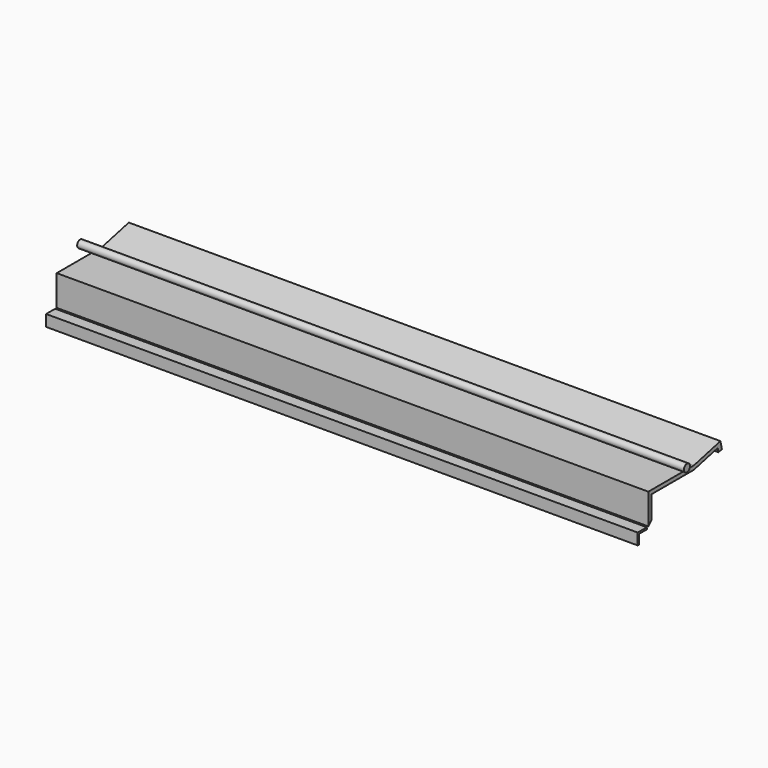
from build123d import *

# Parameters (mm, degrees)
F1_DEPTH      = 1981.2
F3_DEPTH      = 1981.2
F5_DEPTH      = 25.4
F5_DEPTH_BACK = 2006.6


with BuildPart() as f1:
    # F0 (on Right) → F1 (new body)
    with BuildSketch(Plane.YZ):
        Polygon((0, 101.6), (0, 0), (12.7, 12.7), (12.7, 101.6), align=None)
        Polygon((-6.35, -6.35), (-6.35, 0), (-44.45, 0), (-44.45, -38.1), (-38.1, -38.1), (-38.1, -6.35), align=None)
    extrude(amount=-F1_DEPTH)

    # F2 (on Right) → F3 (join)
    with BuildSketch(Plane.YZ):
        Polygon((190.5, 102.396213), (0, 102.396213), (0, 89.341822), (190.5, 89.341822), (290.274997, 113.076571), (304.636168, 116.492846), (301.697072, 128.848076), align=None)
        Polygon((307.989514, 102.396213), (304.636168, 116.492846), (290.274997, 113.076571), (293.628342, 98.979938), align=None)
    extrude(amount=-F3_DEPTH)


with BuildPart() as f5:
    # F4 (on face) → F5 (new body, two sides)
    with BuildSketch(Plane.YZ) as f5_sk:
        with BuildLine():
            ThreePointArc((142.805823, 127.796213), (121.125567, 136.776469), (130.105823, 115.096213))
            ThreePointArc((130.105823, 115.096213), (139.086079, 118.815956), (142.805823, 127.796213))
        make_face()
    extrude(amount=F5_DEPTH)
    extrude(f5_sk.sketch, amount=-F5_DEPTH_BACK)


solid = Compound([f1.part, f5.part])
